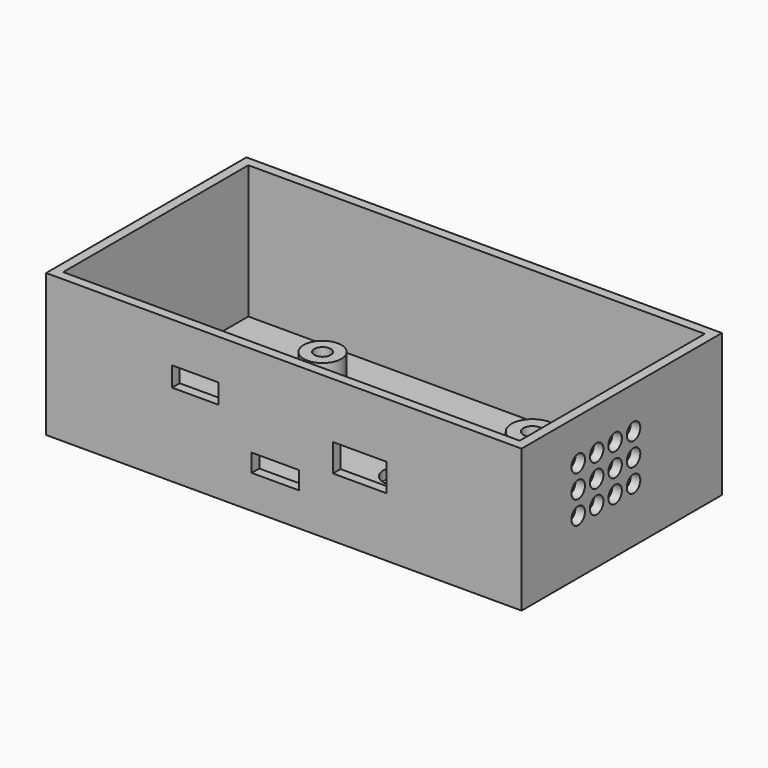
from build123d import *

# Parameters (mm, degrees)
SKETCH_W        = 150
SKETCH_H        = 79
PAD_DEPTH       = 45
SKETCH001_W     = 144
SKETCH001_H     = 73
POCKET_DEPTH    = 42
SKETCH002_W     = 14.663201
SKETCH002_H     = 6.203663
SKETCH002_W_2   = 16.919073
SKETCH002_H_2   = 8.741524
SKETCH002_W_3   = 14.945191
SKETCH002_H_3   = 5.639692
POCKET001_DEPTH = 3
SKETCH003_R     = 5.949199
SKETCH003_R_2   = 2.588926
SKETCH003_R_3   = 5.354286
SKETCH003_R_4   = 2.696955
SKETCH003_R_5   = 6.584553
SKETCH003_R_6   = 2.878425
PAD001_DEPTH    = 10
POCKET002_DEPTH = 3
SKETCH005_R     = 2.662532
POCKET003_DEPTH = 3


with BuildPart() as part:
    # Sketch → Pad (new body)
    with BuildSketch(Plane.XY):
        Rectangle(SKETCH_W, SKETCH_H)
    extrude(amount=-PAD_DEPTH)

    # Sketch001 → Pocket (cut)
    with BuildSketch(Plane.XY):
        Rectangle(SKETCH001_W, SKETCH001_H)
    extrude(amount=-POCKET_DEPTH, mode=Mode.SUBTRACT)

    # Sketch002 (on DatumPlane) → Pocket001 (cut)
    with BuildSketch(Plane.XZ.offset(39.5)):
        with Locations((-27.918567, -15.816674)):
            Rectangle(SKETCH002_W, SKETCH002_H)
        with Locations((23.966603, -21.879343)):
            Rectangle(SKETCH002_W_2, SKETCH002_H_2)
        with Locations((-2.680947, -31.607812)):
            Rectangle(SKETCH002_W_3, SKETCH002_H_3)
    extrude(amount=-POCKET001_DEPTH, mode=Mode.SUBTRACT)

    # Sketch003 (on DatumPlane) → Pad001 (join)
    with BuildSketch(Plane.XY.offset(-42)):
        with Locations((-33.910699, 18.155216)):
            Circle(SKETCH003_R)
        with Locations((-33.910699, 18.155216)):
            Circle(SKETCH003_R_2, mode=Mode.SUBTRACT)
        with Locations((-35.593381, -9.60911)):
            Circle(SKETCH003_R_3)
        with Locations((-35.593381, -9.60911)):
            Circle(SKETCH003_R_4, mode=Mode.SUBTRACT)
        with Locations((32.979031, 17.313114)):
            Circle(SKETCH003_R_5)
        with Locations((32.979031, 17.313114)):
            Circle(SKETCH003_R_6, mode=Mode.SUBTRACT)
    extrude(amount=PAD001_DEPTH)

    # Sketch004 (on DatumPlane) → Pocket002 (cut)
    with BuildSketch(Plane.XY.offset(-42)):
        with BuildLine():
            ThreePointArc((31.442511, -11.927483), (36.580599, -6.789395), (31.442511, -1.651307))
            Line((31.442511, -1.651307), (10.376326, -1.651307))
            ThreePointArc((10.376326, -1.651307), (5.238238, -6.789395), (10.376326, -11.927483))
            Line((31.442511, -11.927483), (10.376326, -11.927483))
        make_face()
        with BuildLine():
            ThreePointArc((31.95632, -22.717489), (34.525381, -20.148428), (31.95632, -17.579367))
            Line((31.95632, -17.579367), (5.752032, -17.579367))
            ThreePointArc((5.752032, -17.579367), (3.182971, -20.148428), (5.752032, -22.717489))
            Line((31.95632, -22.717489), (5.752032, -22.717489))
        make_face()
    extrude(amount=-POCKET002_DEPTH, mode=Mode.SUBTRACT)

    # Sketch005 (on DatumPlane) → Pocket003 (cut)
    with BuildSketch(Plane.YZ.offset(75)):
        with Locations((-17.169722, -13.141008)):
            Circle(SKETCH005_R)
        with Locations((-9.896163, -13.141008)):
            Circle(SKETCH005_R)
        with Locations((-2.622604, -13.141008)):
            Circle(SKETCH005_R)
        with Locations((4.650955, -13.141008)):
            Circle(SKETCH005_R)
        with Locations((-17.169722, -20.414567)):
            Circle(SKETCH005_R)
        with Locations((-9.896163, -20.414567)):
            Circle(SKETCH005_R)
        with Locations((-2.622604, -20.414567)):
            Circle(SKETCH005_R)
        with Locations((4.650955, -20.414567)):
            Circle(SKETCH005_R)
        with Locations((-17.169722, -27.688126)):
            Circle(SKETCH005_R)
        with Locations((-9.896163, -27.688126)):
            Circle(SKETCH005_R)
        with Locations((-2.622604, -27.688126)):
            Circle(SKETCH005_R)
        with Locations((4.650955, -27.688126)):
            Circle(SKETCH005_R)
    extrude(amount=-POCKET003_DEPTH, mode=Mode.SUBTRACT)


solid = part.part
